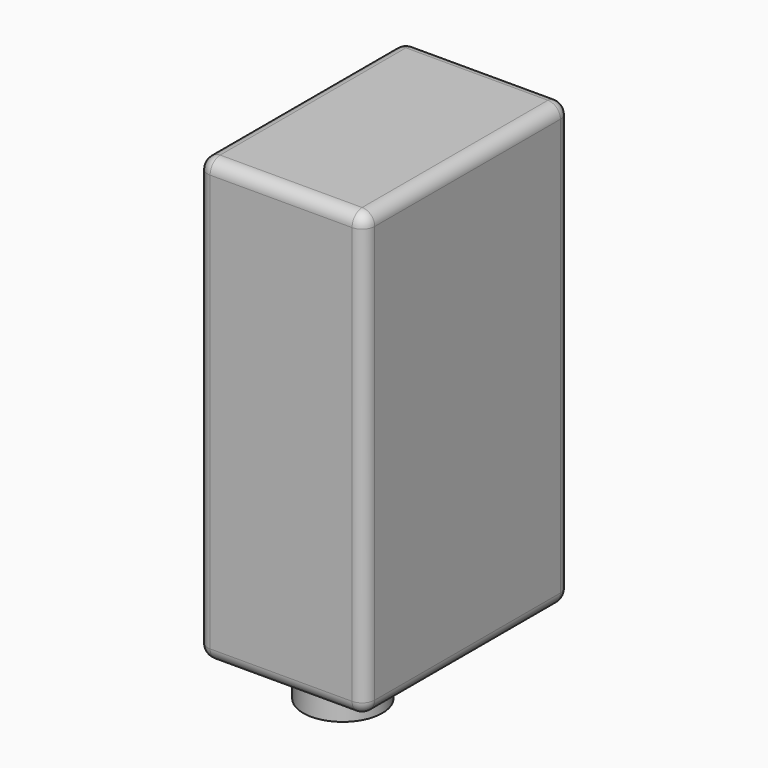
from build123d import *

# Parameters (mm, degrees)
F0_W     = 16.891
F0_H     = 26.0096
F1_DEPTH = 44.704
F2_R     = 2.5019
F2_R_2   = 4.0005
F3_DEPTH = 3.9878
F4_R     = 1.27


with BuildPart() as f1:
    # F0 (on Top) → F1 (new body)
    with BuildSketch(Plane.XY):
        Rectangle(F0_W, F0_H)
    extrude(amount=F1_DEPTH)

    # F2 (on Top) → F3 (join)
    with BuildSketch(Plane.XY):
        with Locations((0, 7.796854)):
            Circle(F2_R)
        with Locations((0, -5.207946)):
            Circle(F2_R_2)
    extrude(amount=-F3_DEPTH)

    # F4
    f4_edges = [f1.edges().sort_by_distance(p)[0] for p in [
        (0, -13.0048, 0),
        (-8.4455, 0, 0),
        (0, 13.0048, 0),
        (8.4455, 0, 0),
        (-8.4455, -13.0048, 22.352),
        (-8.4455, 13.0048, 22.352),
        (8.4455, -13.0048, 22.352),
        (0, -13.0048, 44.704),
        (-8.4455, 0, 44.704),
        (8.4455, 13.0048, 22.352),
        (8.4455, 0, 44.704),
        (0, 13.0048, 44.704),
    ]]
    fillet(f4_edges, radius=F4_R)


solid = f1.part
